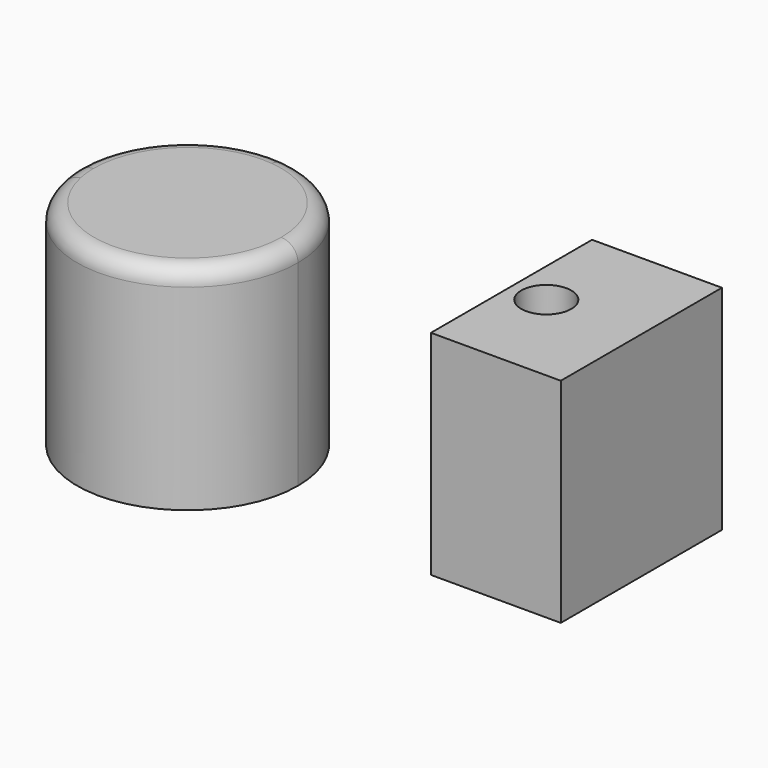
from build123d import *

# Parameters (mm, degrees)
F1_DEPTH = 63.1
F0_W     = 38.4319275618
F0_H     = 59.6171896905
F2_R     = 5
F3_R     = 7.4055413417
F4_DEPTH = 11


with BuildPart() as f1:
    # F0 (on Top) → F1 (new body)
    with BuildSketch(Plane.XY):
        with BuildLine():
            ThreePointArc((-32.7037602776, -0.2515915217), (-32.514672303, -3.5206987403), (-31.9996221867, -6.7545106778))
            Line((-31.9996221867, -6.7545106778), (-32.7037602776, -0.2515915217))
        make_face()
        with BuildLine():
            Line((-32.7037602776, -0.2515915217), (-31.9996221867, -6.7545106778))
            ThreePointArc((-31.9996221867, -6.7545106778), (3.3956070417, -32.5279739211), (32.7047280159, 0))
            ThreePointArc((32.7047280159, 0), (24.3140893809, 21.8729122928), (3.447533647, 32.5225113782))
            ThreePointArc((3.447533647, 32.5225113782), (-21.966273111, 24.2297767262), (-32.7037602776, -0.2515915217))
        make_face()
    extrude(amount=F1_DEPTH)

    # F2
    f2_edges = [f1.edges().sort_by_distance(p)[0] for p in [
        (31.999622, 6.754511, 63.1),
    ]]
    fillet(f2_edges, radius=F2_R)


with BuildPart() as f1b:
    # F0 (on Top) → F1, piece 2 (new body)
    with BuildSketch(Plane.XY):
        with Locations((103.7881597877, 14.1390385106)):
            Rectangle(F0_W, F0_H)
    extrude(amount=F1_DEPTH)

    # F3 (on face) → F4 (cut)
    with BuildSketch(Plane.XY.offset(63.1)):
        with Locations((95.0485095382, 13.9125082642)):
            Circle(F3_R)
    extrude(amount=-F4_DEPTH, mode=Mode.SUBTRACT)


solid = Compound([f1.part, f1b.part])
